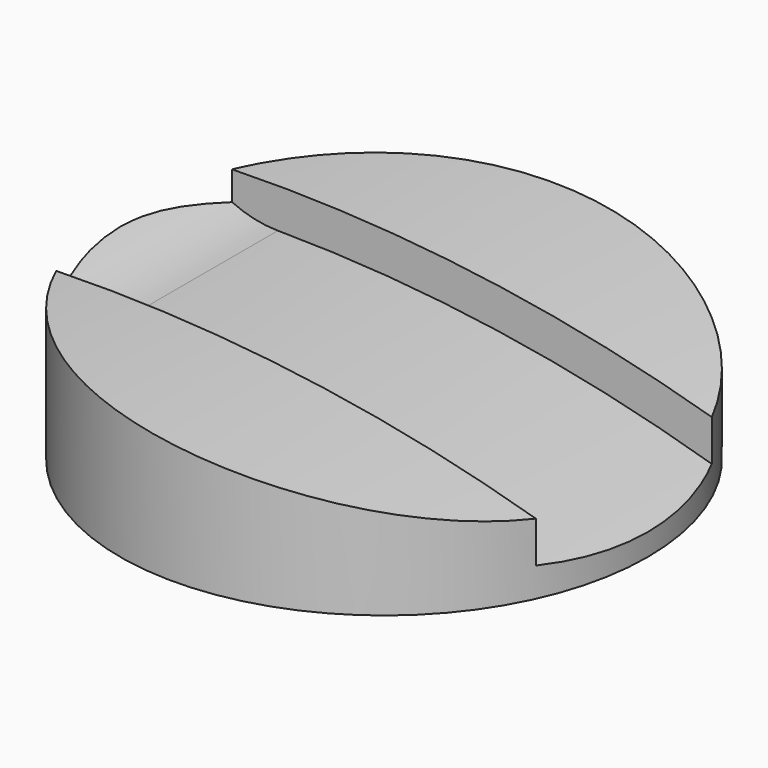
from build123d import *

# Parameters (mm, degrees)
F0_R     = 60
F1_DEPTH = 40
F3_DEPTH = 100
F4_DEPTH = 25
F5_W     = 50
F5_H     = 20
F6_DEPTH = 15


with BuildPart() as f1:
    # F0 (on Top) → F1 (new body)
    with BuildSketch(Plane.XY):
        Circle(F0_R)
    extrude(amount=F1_DEPTH)

    # F2 (on Front) → F3 (cut, symmetric)
    with BuildSketch(Plane.XZ):
        with BuildLine():
            ThreePointArc((-60, 30.007477), (0.661156, 27.310043), (60, 14.427749))
            Line((60, 14.427749), (60, 41.473642))
            Line((60, 41.473642), (-60, 41.473642))
            Line((-60, 41.473642), (-60, 30.007477))
        make_face()
    extrude(amount=F3_DEPTH, both=True, mode=Mode.SUBTRACT)

    # F2 (on Front) → F4 (cut, symmetric)
    with BuildSketch(Plane.XZ):
        with BuildLine():
            ThreePointArc((-44.121098, 21.295034), (8.556291, 17.088967), (60, 5))
            Line((60, 5), (60, 14.427749))
            ThreePointArc((60, 14.427749), (0.661156, 27.310043), (-60, 30.007477))
            Line((-60, 30.007477), (-60, 27.070224))
            ThreePointArc((-60, 27.070224), (-52.563238, 22.800483), (-44.121098, 21.295034))
        make_face()
    extrude(amount=F4_DEPTH, both=True, mode=Mode.SUBTRACT)

    # F5 (on face) → F6 (cut)
    with BuildSketch(Plane(origin=(0, 0, 0), x_dir=(1, 0, 0), z_dir=(0, 0, -1))):
        with Locations((-33.5, 0)):
            Rectangle(F5_W, F5_H)
    extrude(amount=-F6_DEPTH, mode=Mode.SUBTRACT)


solid = f1.part
